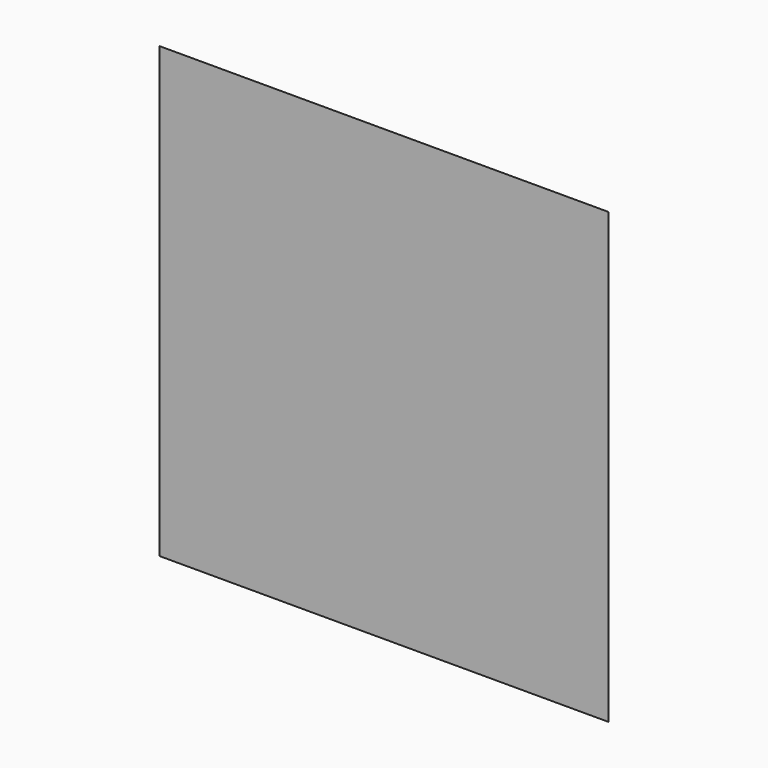
from build123d import *

# Parameters (mm, degrees)
F0_W     = 100
F0_H     = 100
F1_DEPTH = 100
F1_TAPER = -45


with BuildPart() as f1:
    # F0 (on Front) → F1 (new body)
    with BuildSketch(Plane.XZ):
        Rectangle(F0_W, F0_H)
    extrude(amount=F1_DEPTH, taper=F1_TAPER)


solid = f1.part
